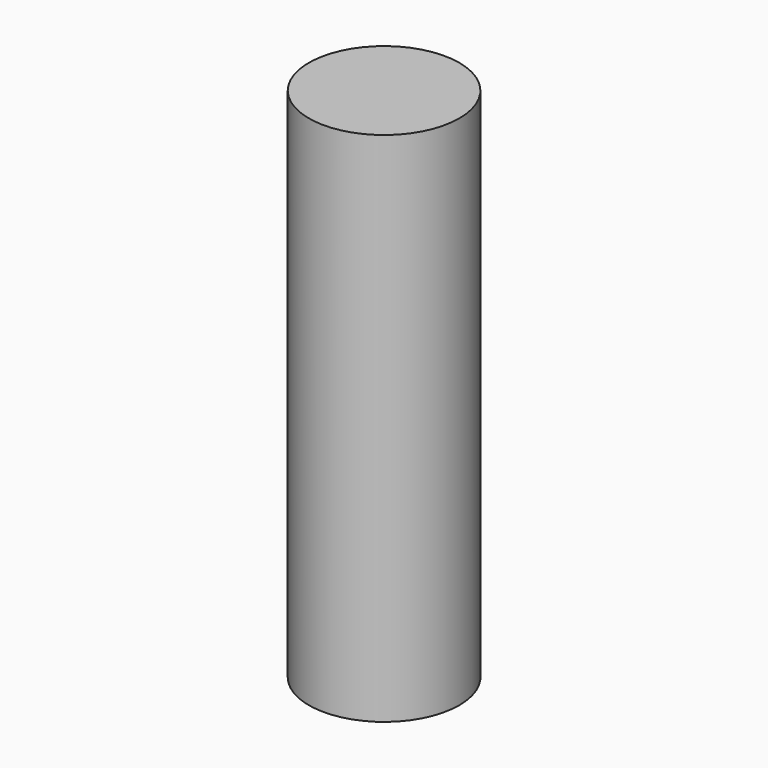
from build123d import *

# Parameters (mm, degrees)
CYLINDER_R     = 2.1844
CYLINDER_DEPTH = 15


with BuildPart() as part:
    # Cylinder → Cylinder (new body)
    with BuildSketch(Plane.XY.offset(-2.5)):
        Circle(CYLINDER_R)
    extrude(amount=CYLINDER_DEPTH)


solid = part.part
